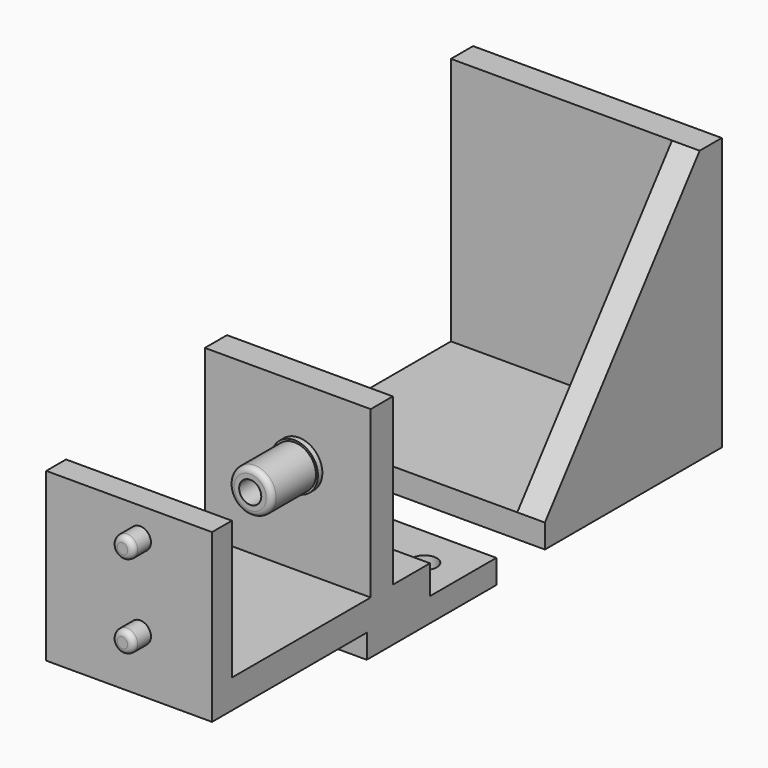
from build123d import *

# Parameters (mm, degrees)
F0_W      = 40
F0_H      = 40
F1_DEPTH  = 4.3
F2_W      = 40
F2_H      = 5
F3_DEPTH  = 45
F5_DEPTH  = 5
F7_DEPTH  = 30
F8_R      = 4.25
F9_DEPTH  = 6
F10_R     = 3.9
F11_DEPTH = 10
F12_R     = 1
F13_R     = 2.25
F14_DEPTH = 4.332997
F15_R     = 2
F16_DEPTH = 16
F17_R     = 1.95
F18_DEPTH = 4
F19_R     = 1


with BuildPart() as f1:
    # F0 (on Top) → F1 (new body)
    with BuildSketch(Plane.XY):
        with Locations((1.137482, 9.817922)):
            Rectangle(F0_W, F0_H)
    extrude(amount=F1_DEPTH)

    # F2 (on face) → F3 (join)
    with BuildSketch(Plane.XY.offset(4.3)):
        with Locations((1.137482, 27.317922)):
            Rectangle(F2_W, F2_H)
    extrude(amount=F3_DEPTH)

    # F4 (on face) → F5 (join)
    with BuildSketch(Plane.YZ.offset(21.137482)):
        Polygon((29.817922, 0), (29.817922, 49.3), (24.817922, 49.3), (-10.182078, 4.3), (-10.182078, 0), align=None)
    extrude(amount=F5_DEPTH)


with BuildPart() as f7:
    # F6 (on Right) → F7 (new body)
    with BuildSketch(Plane.YZ):
        Polygon((-55.295794, 2.033508), (-26.003286, 2.033508), (-26.003286, 6.366504), (-41.003286, 6.366504), (-41.003286, 11.598888), (-49.409722, 11.598888), (-49.409722, 41.598888), (-54.409722, 41.598888), (-54.409722, 11.598888), (-85.819803, 11.598888), (-85.819803, 36.598888), (-90.295722, 36.598888), (-90.295722, 11.598888), (-90.295722, 6.366504), (-55.295794, 6.366504), align=None)
    extrude(amount=F7_DEPTH)

    # F8 (on face) → F9 (join)
    with BuildSketch(Plane(origin=(0, -49.409722, 0), x_dir=(-1, 0, 0), z_dir=(0, 1, 0))):
        with Locations((-17, 28.598888)):
            Circle(F8_R)
    extrude(amount=-F9_DEPTH)

    # F10 (on face) → F11 (join)
    with BuildSketch(Plane.XZ.offset(55.409722)):
        with Locations((17, 28.598888)):
            Circle(F10_R)
    extrude(amount=F11_DEPTH)

    # F12
    f12_edges = [f7.edges().sort_by_distance(p)[0] for p in [
        (13.1, -65.409722, 28.598888),
    ]]
    fillet(f12_edges, radius=F12_R)

    # F13 (on face) → F14 (cut, through all)
    with BuildSketch(Plane.XY.offset(6.366504)):
        with Locations((23, -33.503286)):
            Circle(F13_R)
        with Locations((7, -33.503286)):
            Circle(F13_R)
    extrude(amount=-F14_DEPTH, mode=Mode.SUBTRACT)

    # F15 (on face) → F16 (cut, through all)
    with BuildSketch(Plane.XZ.offset(65.409722)):
        with Locations((17, 28.598888)):
            Circle(F15_R)
    extrude(amount=-F16_DEPTH, mode=Mode.SUBTRACT)

    # F17 (on face) → F18 (join)
    with BuildSketch(Plane.XZ.offset(90.295722)):
        with Locations((17, 31.366504)):
            Circle(F17_R)
        with Locations((17, 16.366504)):
            Circle(F17_R)
    extrude(amount=F18_DEPTH)

    # F19
    f19_edges = [f7.edges().sort_by_distance(p)[0] for p in [
        (15.05, -94.295722, 31.366504),
        (15.05, -94.295722, 16.366504),
    ]]
    fillet(f19_edges, radius=F19_R)


solid = Compound([f1.part, f7.part])
